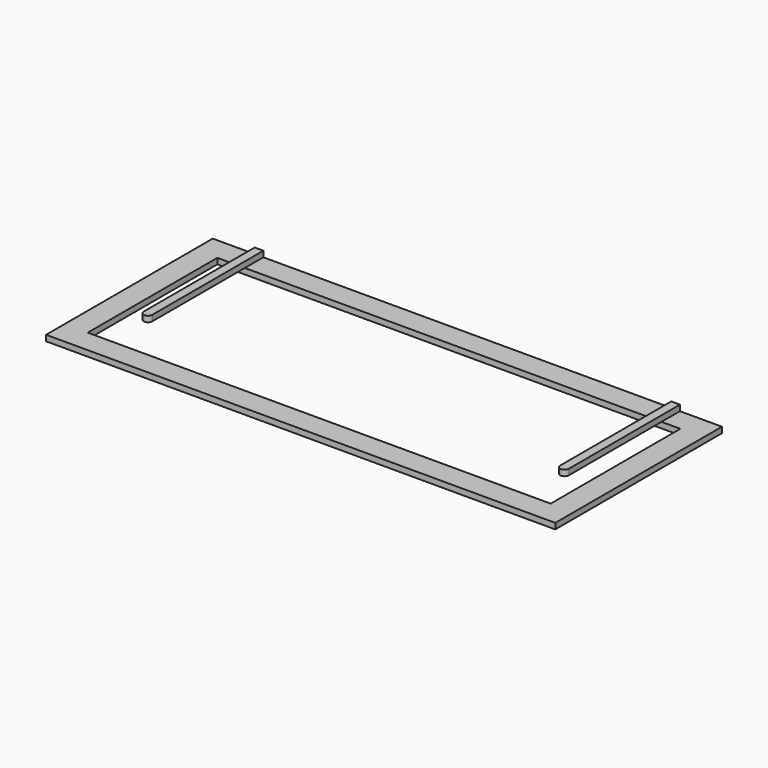
from build123d import *

# Parameters (mm, degrees)
F0_W     = 2235.2
F0_H     = 914.4
F0_W_2   = 2032
F0_H_2   = 711.2
F1_DEPTH = 25.4
F3_DEPTH = 25.4


with BuildPart() as f1:
    # F0 (on Top) → F1 (new body)
    with BuildSketch(Plane.XY):
        with Locations((1117.6, -457.2)):
            Rectangle(F0_W, F0_H)
        with Locations((1117.6, -457.2)):
            Rectangle(F0_W_2, F0_H_2, mode=Mode.SUBTRACT)
    extrude(amount=F1_DEPTH)


with BuildPart() as f3:
    # F2 (on face) → F3 (new body)
    with BuildSketch(Plane.XY.offset(25.4)):
        with BuildLine():
            Line((222.25, 0), (184.15, 0))
            Line((184.15, 0), (184.15, -609.6))
            ThreePointArc((184.15, -609.6), (203.2, -590.55), (222.25, -609.6))
            Line((222.25, -609.6), (222.25, 0))
        make_face()
        with BuildLine():
            ThreePointArc((222.25, -609.6), (203.2, -590.55), (184.15, -609.6))
            Line((184.15, -609.6), (222.25, -609.6))
        make_face()
        with BuildLine():
            Line((222.25, -609.6), (184.15, -609.6))
            ThreePointArc((184.15, -609.6), (203.2, -628.65), (222.25, -609.6))
        make_face()
    extrude(amount=F3_DEPTH)


with BuildPart() as f3b:
    # F2 (on face) → F3, piece 2 (new body)
    with BuildSketch(Plane.XY.offset(25.4)):
        with BuildLine():
            Line((2051.05, 0), (2012.95, 0))
            Line((2012.95, 0), (2012.95, -609.6))
            ThreePointArc((2012.95, -609.6), (2032, -590.55), (2051.05, -609.6))
            Line((2051.05, -609.6), (2051.05, 0))
        make_face()
        with BuildLine():
            ThreePointArc((2051.05, -609.6), (2032, -590.55), (2012.95, -609.6))
            Line((2012.95, -609.6), (2051.05, -609.6))
        make_face()
        with BuildLine():
            Line((2051.05, -609.6), (2012.95, -609.6))
            ThreePointArc((2012.95, -609.6), (2032, -628.65), (2051.05, -609.6))
        make_face()
    extrude(amount=F3_DEPTH)


solid = Compound([f1.part, f3.part, f3b.part])
